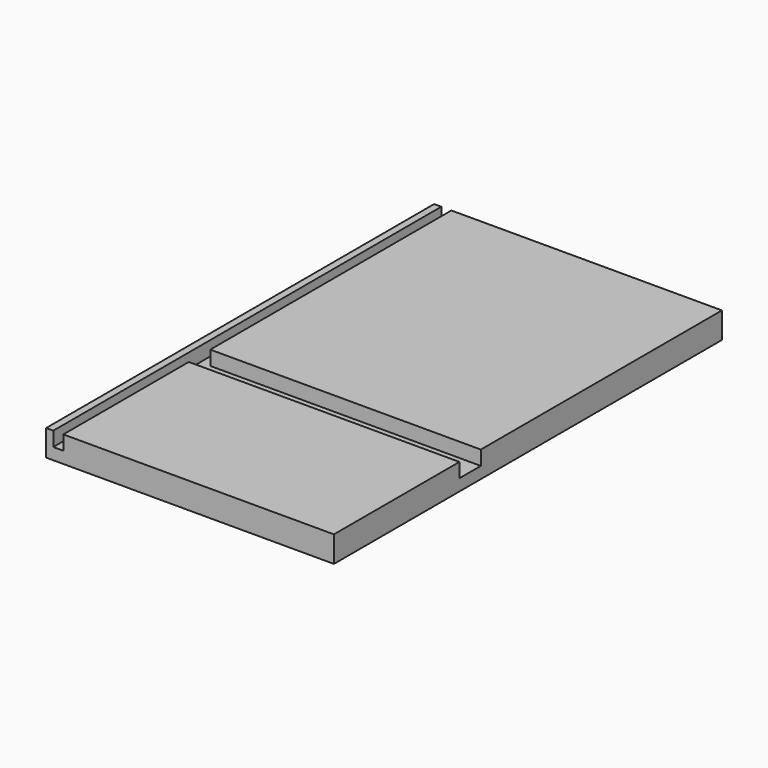
from build123d import *

# Parameters (mm, degrees)
F0_W      = 200
F0_H      = 337
F1_DEPTH  = 18.1
F2_W      = 25
F2_H      = 18.6
F2_W_2    = 150
F3_DEPTH  = 10
F5_DEPTH  = 25
F6_W      = 7
F6_H      = 209.4
F7_DEPTH  = 10
F8_W      = 7
F8_H      = 109
F9_DEPTH  = 10
F10_W     = 5
F10_H     = 18.6
F11_DEPTH = 13


with BuildPart() as f1:
    # F0 (on Top) → F1 (new body)
    with BuildSketch(Plane.XY):
        Rectangle(F0_W, F0_H)
    extrude(amount=F1_DEPTH)

    # F2 (on face) → F3 (cut)
    with BuildSketch(Plane.XY.offset(18.1)):
        with Locations((-87.5, -50.2)):
            Rectangle(F2_W, F2_H)
        with Locations((-62.5, -50.2)):
            Rectangle(F2_W, F2_H)
        with Locations((25, -50.2)):
            Rectangle(F2_W_2, F2_H)
        with Locations((112.5, -50.2)):
            Rectangle(F2_W, F2_H)
        with Locations((137.5, -50.2)):
            Rectangle(F2_W, F2_H)
    extrude(amount=-F3_DEPTH, mode=Mode.SUBTRACT)

    # F4 (on face) → F5 (cut)
    with BuildSketch(Plane.XY.offset(8.1)):
        with BuildLine():
            Line((-52.5, -50.2), (-50, -50.2))
            Line((-50, -50.2), (-47.5, -50.2))
            ThreePointArc((-47.5, -50.2), (-50, -47.7), (-52.5, -50.2))
        make_face()
        with BuildLine():
            Line((-47.5, -50.2), (-50, -50.2))
            Line((-50, -50.2), (-52.5, -50.2))
            ThreePointArc((-52.5, -50.2), (-50, -52.7), (-47.5, -50.2))
        make_face()
        with BuildLine():
            ThreePointArc((52.5, -50.2), (50, -47.7), (47.5, -50.2))
            Line((47.5, -50.2), (50, -50.2))
            Line((50, -50.2), (52.5, -50.2))
        make_face()
        with BuildLine():
            Line((50, -50.2), (47.5, -50.2))
            ThreePointArc((47.5, -50.2), (50, -52.7), (52.5, -50.2))
            Line((52.5, -50.2), (50, -50.2))
        make_face()
    extrude(amount=-F5_DEPTH, mode=Mode.SUBTRACT)

    # F6 (on face) → F7 (cut)
    with BuildSketch(Plane.XY.offset(18.1)):
        with Locations((-91.5, 63.8)):
            Rectangle(F6_W, F6_H)
    extrude(amount=-F7_DEPTH, mode=Mode.SUBTRACT)

    # F8 (on face) → F9 (cut)
    with BuildSketch(Plane.XY.offset(18.1)):
        with Locations((-91.5, -114)):
            Rectangle(F8_W, F8_H)
    extrude(amount=-F9_DEPTH, mode=Mode.SUBTRACT)

    # F10 (on face) → F11 (join)
    with BuildSketch(Plane.XY.offset(18.1)):
        with Locations((-97.5, -50.2)):
            Rectangle(F10_W, F10_H)
    extrude(amount=-F11_DEPTH)


solid = f1.part
